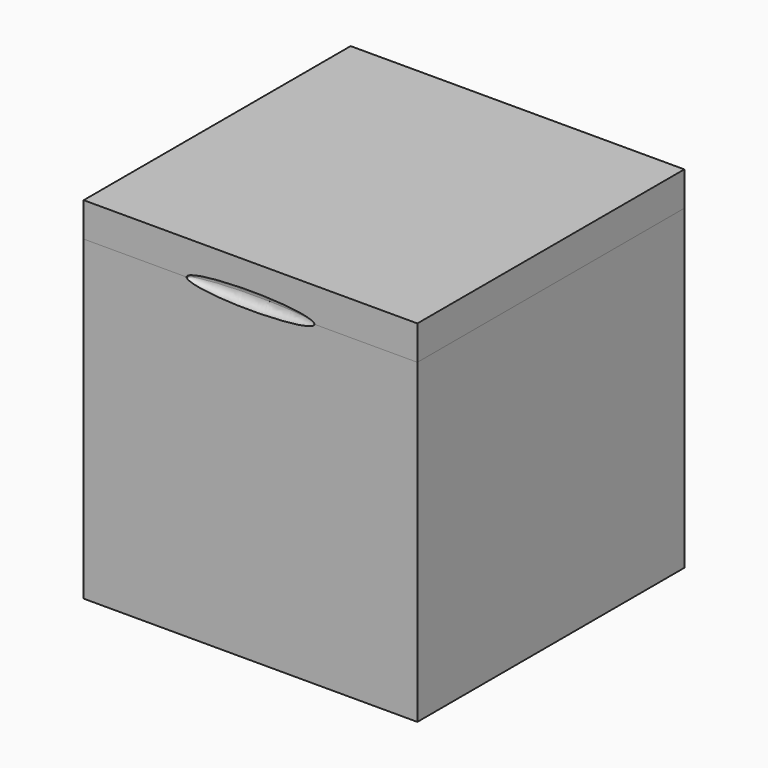
from build123d import *

# Parameters (mm, degrees)
F0_W     = 39
F0_H     = 39
F1_DEPTH = 37
F2_W     = 35
F2_H     = 35
F3_DEPTH = 35
F4_W     = 39
F4_H     = 39
F5_DEPTH = 4
F6_W     = 34.7
F6_H     = 34.7
F7_DEPTH = 2
F8_R     = 2


with BuildPart() as f1:
    # F0 (on Top) → F1 (new body)
    with BuildSketch(Plane.XY):
        Rectangle(F0_W, F0_H)
    extrude(amount=F1_DEPTH)

    # F2 (on face) → F3 (cut)
    with BuildSketch(Plane.XY.offset(37)):
        Rectangle(F2_W, F2_H)
    extrude(amount=-F3_DEPTH, mode=Mode.SUBTRACT)


with BuildPart() as f5:
    # F4 (on face) → F5 (new body)
    with BuildSketch(Plane.XY.offset(37)):
        Rectangle(F4_W, F4_H)
    extrude(amount=F5_DEPTH)

    # F6 (on face) → F7 (join)
    with BuildSketch(Plane(origin=(0, 0, 37), x_dir=(1, 0, 0), z_dir=(0, 0, -1))):
        Rectangle(F6_W, F6_H)
    extrude(amount=F7_DEPTH)

    # F8
    f8_edges = [f5.edges().sort_by_distance(p)[0] for p in [
        (-17.35, -17.35, 36),
        (17.35, -17.35, 36),
        (-17.35, 17.35, 36),
        (17.35, 17.35, 36),
    ]]
    fillet(f8_edges, radius=F8_R)


with BuildPart() as f10:
    # F9 (on face) → F10 (revolve)
    with BuildSketch(Plane.XY.offset(37)):
        with BuildLine():
            Line((-7.4697477275, -19.5), (7.4697477275, -19.5))
            add(Edge.make_bspline(
                [(7.4697477275, -19.5), (7.4697477275, -18.5), (0, -18.5), (-7.4697477275, -18.5), (-7.4697477275, -19.5)],
                knots=[0, 0, 0, 1.5707963268, 1.5707963268, 3.1415926536, 3.1415926536, 3.1415926536], degree=2, weights=[1, 0.7071067812, 1, 0.7071067812, 1]))
        make_face()
    revolve(axis=Axis((0, -19.5, 37), (-1, 0, 0)))


with BuildPart() as f5_1:
    add(f5.part)

    # F11: cut F10
    add(f10.part, mode=Mode.SUBTRACT)


with BuildPart() as f1_1:
    add(f1.part)

    # F11: cut F10
    add(f10.part, mode=Mode.SUBTRACT)


solid = Compound([f5_1.part, f1_1.part])
